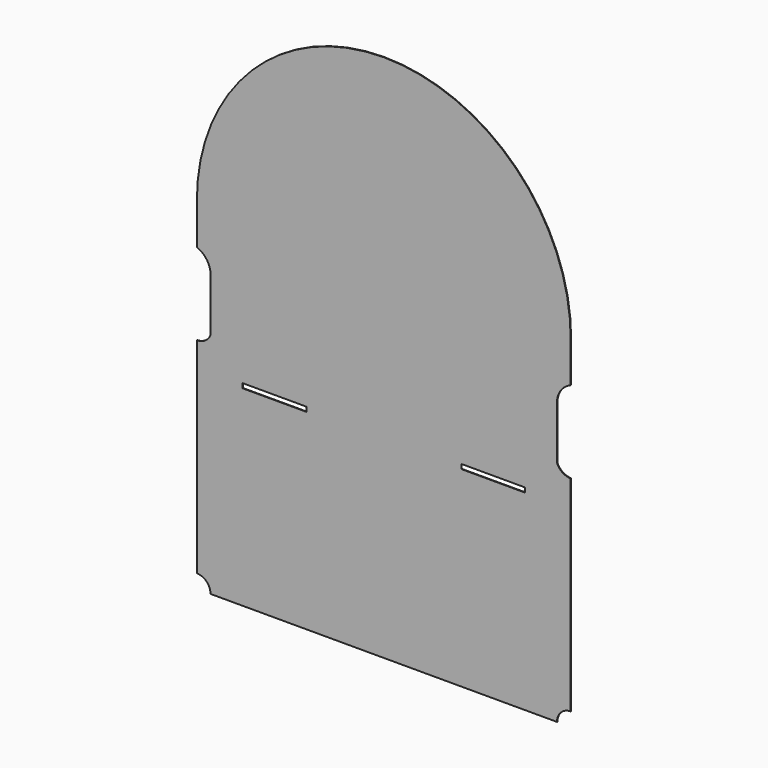
from build123d import *

# Parameters (mm, degrees)
F0_W     = 88.9
F0_H     = 6.35
F1_DEPTH = 0.8128


with BuildPart() as f1:
    # F0 (on Front) → F1 (new body)
    with BuildSketch(Plane.XZ):
        with BuildLine():
            ThreePointArc((-241.3, 0), (-248.902375, -9.233938), (-260.35, -12.7))
            Line((-260.35, -12.7), (-260.35, -298.45))
            ThreePointArc((-260.35, -298.45), (-246.879616, -304.029616), (-241.3, -317.5))
            Line((-241.3, -317.5), (241.3, -317.5))
            ThreePointArc((241.3, -317.5), (246.879616, -304.029616), (260.35, -298.45))
            Line((260.35, -298.45), (260.35, -12.7))
            ThreePointArc((260.35, -12.7), (248.902375, -9.233938), (241.3, 0))
            Line((241.3, 0), (241.3, 76.2))
            ThreePointArc((241.3, 76.2), (247.223093, 91.60143), (260.35, 101.6))
            Line((260.35, 101.6), (260.35, 158.75))
            ThreePointArc((260.35, 158.75), (0, 419.1), (-260.35, 158.75))
            Line((-260.35, 158.75), (-260.35, 101.6))
            ThreePointArc((-260.35, 101.6), (-247.223093, 91.60143), (-241.3, 76.2))
            Line((-241.3, 76.2), (-241.3, 0))
        make_face()
        with Locations((-152.4, -47.625)):
            Rectangle(F0_W, F0_H, mode=Mode.SUBTRACT)
        with Locations((152.4, -47.625)):
            Rectangle(F0_W, F0_H, mode=Mode.SUBTRACT)
    extrude(amount=F1_DEPTH)


solid = f1.part
